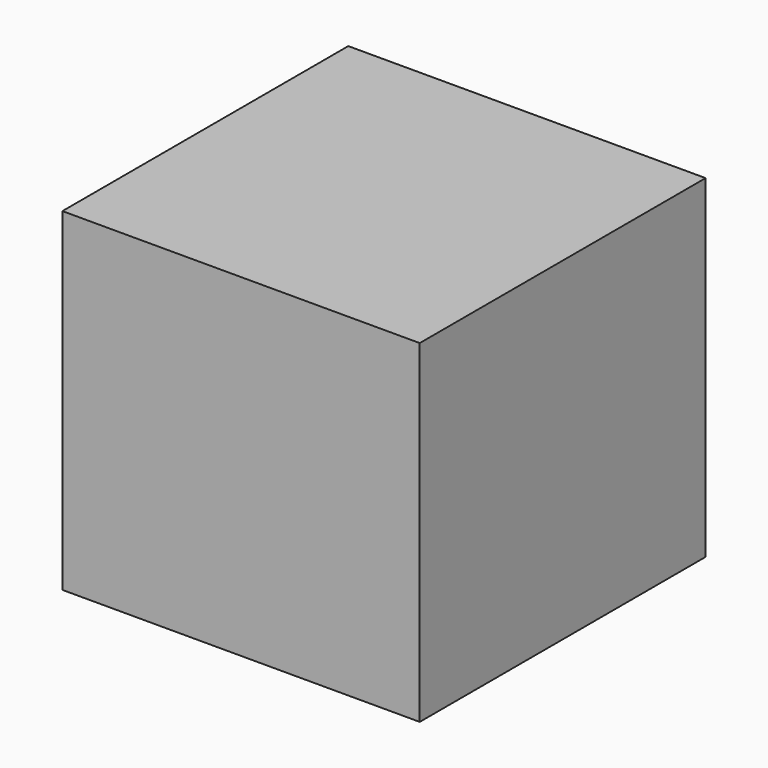
from build123d import *

# Parameters (mm, degrees)
BOX_W     = 375
BOX_H     = 375
BOX_DEPTH = 350


with BuildPart() as part:
    # Box → Box (new body)
    with BuildSketch(Plane.XY):
        with Locations((187.5, 187.5)):
            Rectangle(BOX_W, BOX_H)
    extrude(amount=BOX_DEPTH)


solid = part.part
